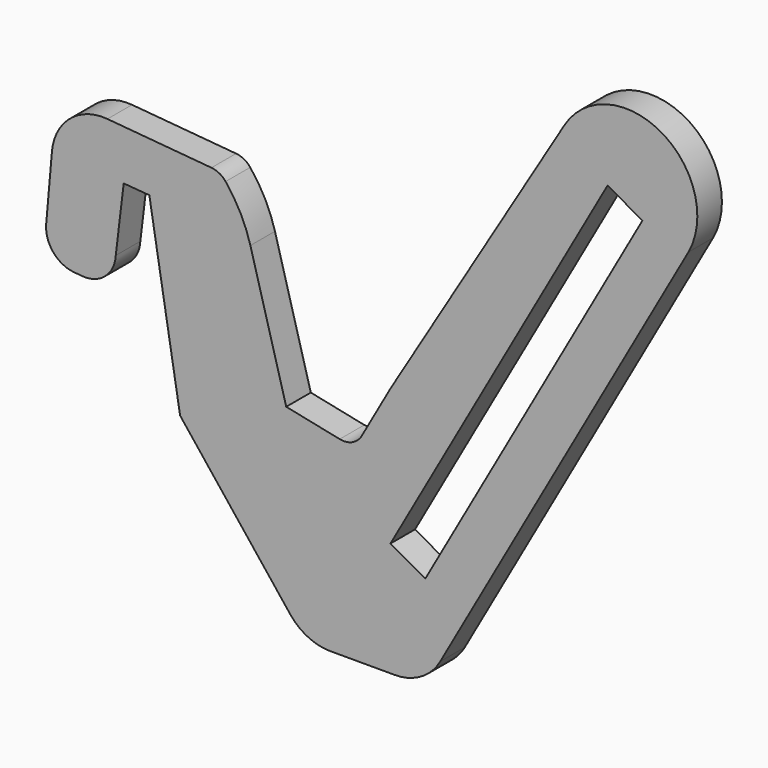
from build123d import *

# Parameters (mm, degrees)
F1_DEPTH = 3


with BuildPart() as f1:
    # F0 (on Front) → F1 (new body)
    with BuildSketch(Plane.XZ):
        with BuildLine():
            ThreePointArc((-30.21721, 28.598247), (-29.526759, 26.408417), (-27.490093, 25.348195))
            Line((-27.490093, 25.348195), (-26.684684, 25.277731))
            ThreePointArc((-26.684684, 25.277731), (-24.453507, 26.00352), (-23.427118, 28.113364))
            Line((-23.427118, 28.113364), (-22.652811, 34.561326))
            Line((-22.652811, 34.561326), (-20.148152, 34.356556))
            Line((-20.148152, 34.356556), (-17.148358, 16.401695))
            Line((-17.148358, 16.401695), (-6.395684, 2.819263))
            ThreePointArc((-6.395684, 2.819263), (-4.749806, 1.46998), (-2.69186, 0.927448))
            Line((-2.69186, 0.927448), (3.795286, 0.927448))
            ThreePointArc((3.795286, 0.927448), (6.369686, 1.624896), (8.239965, 3.526482))
            Line((8.239965, 3.526482), (32.470304, 46.588265))
            ThreePointArc((32.470304, 46.588265), (32.471988, 46.591276), (32.473655, 46.594297))
            ThreePointArc((32.473655, 46.594297), (29.832629, 56.005146), (20.369234, 53.559076))
            Line((20.369234, 53.559076), (3.382199, 25.398622))
            Line((3.382199, 25.398622), (0.580045, 20.418678))
            ThreePointArc((0.580045, 20.418678), (-0.335154, 19.57881), (-1.569676, 19.441239))
            Line((-1.569676, 19.441239), (-6.789335, 20.525333))
            Line((-6.789335, 20.525333), (-10.288338, 33.244174))
            ThreePointArc((-10.288338, 33.244174), (-11.253317, 35.723396), (-12.703767, 37.953624))
            ThreePointArc((-12.703767, 37.953624), (-13.319614, 38.462321), (-14.085419, 38.689439))
            Line((-14.085419, 38.689439), (-24.237539, 39.577635))
            ThreePointArc((-24.237539, 39.577635), (-27.887255, 38.426883), (-29.654291, 35.03244))
            Line((-29.654291, 35.03244), (-30.21721, 28.598247))
        make_face()
        Polygon((27.974011, 47.828823), (6.781071, 10.165058), (3.382199, 12.077562), (24.57514, 49.741327), align=None, mode=Mode.SUBTRACT)
    extrude(amount=F1_DEPTH)


solid = f1.part
